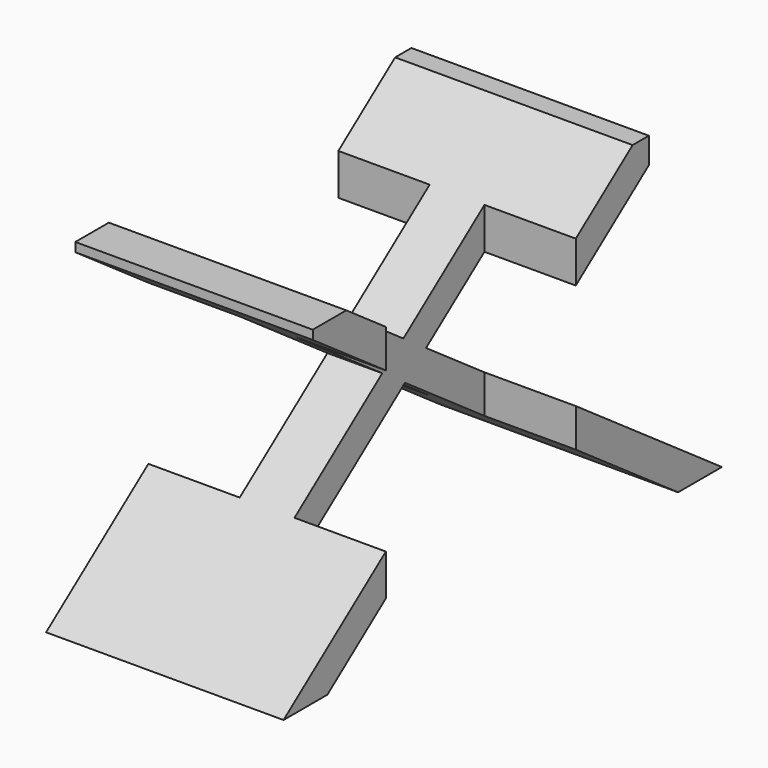
from build123d import *

# Parameters (mm, degrees)
F1_DEPTH = 325
F2_W     = 250
F2_H     = 650
F3_DEPTH = 900


with BuildPart() as f1:
    # F0 (on Right) → F1 (new body, symmetric)
    with BuildSketch(Plane.YZ):
        Polygon((100, 875.2594227621), (650.2305358614, 489.9838537988), (722.4783731793, 544.4265042209), (214.6667939321, 900), (100, 900), align=None)
        Polygon((650.2305358614, 489.9838537988), (0, 0), (150, 0), (727.9826985434, 435.5412033767), align=None)
        Polygon((722.4783731793, 544.4265042209), (650.2305358614, 489.9838537988), (727.9826985434, 435.5412033767), (800.2305358614, 489.9838537988), align=None)
        Polygon((1194.3403394584, 900), (722.4783731793, 544.4265042209), (800.2305358614, 489.9838537988), (1250, 828.9094551131), (1250, 900), align=None)
        Polygon((800.2305358614, 489.9838537988), (727.9826985434, 435.5412033767), (1350, 0), (1500, 0), align=None)
    extrude(amount=F1_DEPTH, both=True)

    # F2 (on Top) → F3 (cut, through all)
    with BuildSketch(Plane.XY):
        with Locations((200, 675)):
            Rectangle(F2_W, F2_H)
        with Locations((-200, 675)):
            Rectangle(F2_W, F2_H)
    extrude(amount=F3_DEPTH, mode=Mode.SUBTRACT)


solid = f1.part
